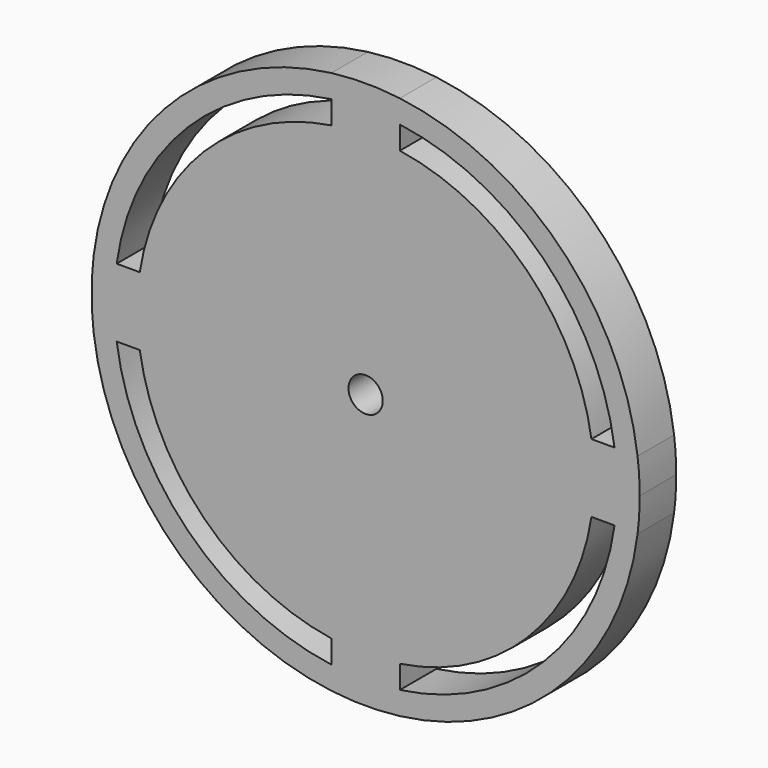
from build123d import *

# Parameters (mm, degrees)
F0_W     = 19.05
F0_H     = 19.05
F0_R     = 4.7625
F1_DEPTH = 12.7


with BuildPart() as f1:
    # F0 (on Front) → F1 (new body)
    with BuildSketch(Plane.XZ):
        with BuildLine():
            ThreePointArc((75.6023437137, -9.525), (76.0504391538, -4.7718659358), (76.2, 0))
            ThreePointArc((76.2, 0), (76.0504391538, 4.7718659358), (75.6023437137, 9.525))
            Line((75.6023437137, 9.525), (69.1975207287, 9.525))
            ThreePointArc((69.1975207287, 9.525), (69.6866892703, 4.7736609169), (69.85, 0))
            ThreePointArc((69.85, 0), (69.6866892703, -4.7736609169), (69.1975207287, -9.525))
            Line((69.1975207287, -9.525), (75.6023437137, -9.525))
        make_face()
        with BuildLine():
            Line((69.1975207287, 9.525), (75.6023437137, 9.525))
            ThreePointArc((75.6023437137, 9.525), (53.8815367264, 53.8815367264), (9.525, 75.6023437137))
            Line((9.525, 75.6023437137), (9.525, 69.1975207287))
            ThreePointArc((9.525, 69.1975207287), (49.3914086659, 49.3914086659), (69.1975207287, 9.525))
        make_face()
        with BuildLine():
            ThreePointArc((9.525, -75.6023437137), (53.8815367264, -53.8815367264), (75.6023437137, -9.525))
            Line((75.6023437137, -9.525), (69.1975207287, -9.525))
            ThreePointArc((69.1975207287, -9.525), (49.3914086659, -49.3914086659), (9.525, -69.1975207287))
            Line((9.525, -69.1975207287), (9.525, -75.6023437137))
        make_face()
        with BuildLine():
            Line((9.525, 69.1975207287), (9.525, 75.6023437137))
            ThreePointArc((9.525, 75.6023437137), (0, 76.2), (-9.525, 75.6023437137))
            Line((-9.525, 75.6023437137), (-9.525, 69.1975207287))
            ThreePointArc((-9.525, 69.1975207287), (0, 69.85), (9.525, 69.1975207287))
        make_face()
        with BuildLine():
            ThreePointArc((-9.525, -75.6023437137), (0, -76.2), (9.525, -75.6023437137))
            Line((9.525, -75.6023437137), (9.525, -69.1975207287))
            ThreePointArc((9.525, -69.1975207287), (0, -69.85), (-9.525, -69.1975207287))
            Line((-9.525, -69.1975207287), (-9.525, -75.6023437137))
        make_face()
        with BuildLine():
            Line((-9.525, 69.1975207287), (-9.525, 75.6023437137))
            ThreePointArc((-9.525, 75.6023437137), (-53.8815367264, 53.8815367264), (-75.6023437137, 9.525))
            Line((-75.6023437137, 9.525), (-69.1975207287, 9.525))
            ThreePointArc((-69.1975207287, 9.525), (-49.3914086659, 49.3914086659), (-9.525, 69.1975207287))
        make_face()
        with BuildLine():
            ThreePointArc((-75.6023437137, -9.525), (-53.8815367264, -53.8815367264), (-9.525, -75.6023437137))
            Line((-9.525, -75.6023437137), (-9.525, -69.1975207287))
            ThreePointArc((-9.525, -69.1975207287), (-49.3914086659, -49.3914086659), (-69.1975207287, -9.525))
            Line((-69.1975207287, -9.525), (-75.6023437137, -9.525))
        make_face()
        with BuildLine():
            Line((-69.1975207287, 9.525), (-75.6023437137, 9.525))
            ThreePointArc((-75.6023437137, 9.525), (-76.2, 0), (-75.6023437137, -9.525))
            Line((-75.6023437137, -9.525), (-69.1975207287, -9.525))
            ThreePointArc((-69.1975207287, -9.525), (-69.85, 0), (-69.1975207287, 9.525))
        make_face()
        with BuildLine():
            Line((-9.525, 9.525), (-9.525, 62.7815607882))
            ThreePointArc((-9.525, 62.7815607882), (-44.9012806053, 44.9012806053), (-62.7815607882, 9.525))
            Line((-62.7815607882, 9.525), (-9.525, 9.525))
        make_face()
        with BuildLine():
            Line((9.525, 9.525), (62.7815607882, 9.525))
            ThreePointArc((62.7815607882, 9.525), (44.9012806053, 44.9012806053), (9.525, 62.7815607882))
            Line((9.525, 62.7815607882), (9.525, 9.525))
        make_face()
        with BuildLine():
            ThreePointArc((9.525, -62.7815607882), (44.9012806053, -44.9012806053), (62.7815607882, -9.525))
            Line((62.7815607882, -9.525), (9.525, -9.525))
            Line((9.525, -9.525), (9.525, -62.7815607882))
        make_face()
        with BuildLine():
            ThreePointArc((-62.7815607882, -9.525), (-44.9012806053, -44.9012806053), (-9.525, -62.7815607882))
            Line((-9.525, -62.7815607882), (-9.525, -9.525))
            Line((-9.525, -9.525), (-62.7815607882, -9.525))
        make_face()
        with BuildLine():
            Line((-9.525, -9.525), (-9.525, 9.525))
            Line((-9.525, 9.525), (-62.7815607882, 9.525))
            ThreePointArc((-62.7815607882, 9.525), (-63.5, 0), (-62.7815607882, -9.525))
            Line((-62.7815607882, -9.525), (-9.525, -9.525))
        make_face()
        with BuildLine():
            ThreePointArc((63.5, 0), (63.3201354628, 4.776028159), (62.7815607882, 9.525))
            Line((62.7815607882, 9.525), (9.525, 9.525))
            Line((9.525, 9.525), (9.525, -9.525))
            Line((9.525, -9.525), (62.7815607882, -9.525))
            ThreePointArc((62.7815607882, -9.525), (63.3201354628, -4.776028159), (63.5, 0))
        make_face()
        with BuildLine():
            Line((9.525, 9.525), (9.525, 62.7815607882))
            ThreePointArc((9.525, 62.7815607882), (0, 63.5), (-9.525, 62.7815607882))
            Line((-9.525, 62.7815607882), (-9.525, 9.525))
            Line((-9.525, 9.525), (9.525, 9.525))
        make_face()
        with BuildLine():
            ThreePointArc((-9.525, -62.7815607882), (0, -63.5), (9.525, -62.7815607882))
            Line((9.525, -62.7815607882), (9.525, -9.525))
            Line((9.525, -9.525), (-9.525, -9.525))
            Line((-9.525, -9.525), (-9.525, -62.7815607882))
        make_face()
        Rectangle(F0_W, F0_H)
        Circle(F0_R, mode=Mode.SUBTRACT)
        with BuildLine():
            Line((9.525, 62.7815607882), (9.525, 69.1975207287))
            ThreePointArc((9.525, 69.1975207287), (0, 69.85), (-9.525, 69.1975207287))
            Line((-9.525, 69.1975207287), (-9.525, 62.7815607882))
            ThreePointArc((-9.525, 62.7815607882), (0, 63.5), (9.525, 62.7815607882))
        make_face()
        with BuildLine():
            Line((-62.7815607882, 9.525), (-69.1975207287, 9.525))
            ThreePointArc((-69.1975207287, 9.525), (-69.85, 0), (-69.1975207287, -9.525))
            Line((-69.1975207287, -9.525), (-62.7815607882, -9.525))
            ThreePointArc((-62.7815607882, -9.525), (-63.5, 0), (-62.7815607882, 9.525))
        make_face()
        with BuildLine():
            ThreePointArc((-9.525, -69.1975207287), (0, -69.85), (9.525, -69.1975207287))
            Line((9.525, -69.1975207287), (9.525, -62.7815607882))
            ThreePointArc((9.525, -62.7815607882), (0, -63.5), (-9.525, -62.7815607882))
            Line((-9.525, -62.7815607882), (-9.525, -69.1975207287))
        make_face()
        with BuildLine():
            ThreePointArc((69.85, 0), (69.6866892703, 4.7736609169), (69.1975207287, 9.525))
            Line((69.1975207287, 9.525), (62.7815607882, 9.525))
            ThreePointArc((62.7815607882, 9.525), (63.3201354628, 4.776028159), (63.5, 0))
            ThreePointArc((63.5, 0), (63.3201354628, -4.776028159), (62.7815607882, -9.525))
            Line((62.7815607882, -9.525), (69.1975207287, -9.525))
            ThreePointArc((69.1975207287, -9.525), (69.6866892703, -4.7736609169), (69.85, 0))
        make_face()
    extrude(amount=F1_DEPTH)


solid = f1.part
